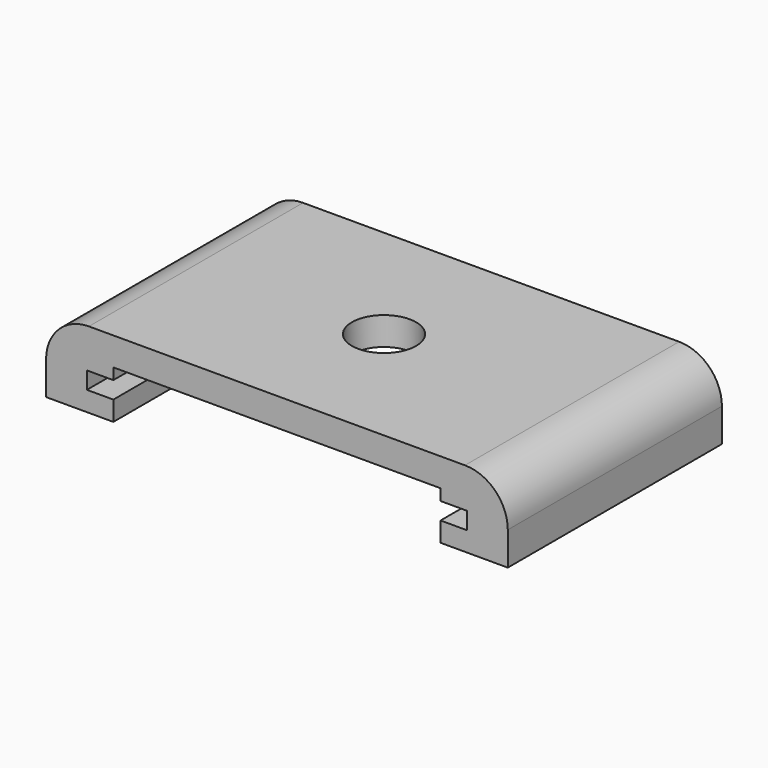
from build123d import *

# Parameters (mm, degrees)
F1_DEPTH = 50
F3_DEPTH = 25
F6_D     = 6


with BuildPart() as f1:
    # F0 (on Front) → F1 (new body)
    with BuildSketch(Plane.XZ):
        with BuildLine():
            Line((-17.75, 14.9), (-17.75, 13.3))
            Line((-17.75, 13.3), (-14.55, 13.3))
            ThreePointArc((-14.55, 13.3), (-13.913604, 13.036396), (-13.65, 12.4))
            Line((-13.65, 12.4), (-13.65, 0.9))
            ThreePointArc((-13.65, 0.9), (-13.386396, 0.263604), (-12.75, 0))
            Line((-12.75, 0), (0, 0))
            Line((0, 0), (12.75, 0))
            ThreePointArc((12.75, 0), (13.386396, 0.263604), (13.65, 0.9))
            Line((13.65, 0.9), (13.65, 12.4))
            ThreePointArc((13.65, 12.4), (13.913604, 13.036396), (14.55, 13.3))
            Line((14.55, 13.3), (17.75, 13.3))
            Line((17.75, 13.3), (17.75, 14.9))
            Line((17.75, 14.9), (13.25, 14.9))
            ThreePointArc((13.25, 14.9), (12.401472, 14.548528), (12.05, 13.7))
            Line((12.05, 13.7), (12.05, 2.5))
            ThreePointArc((12.05, 2.5), (11.786396, 1.863604), (11.15, 1.6))
            Line((11.15, 1.6), (0, 1.6))
            Line((0, 1.6), (-11.15, 1.6))
            ThreePointArc((-11.15, 1.6), (-11.786396, 1.863604), (-12.05, 2.5))
            Line((-12.05, 2.5), (-12.05, 13.7))
            ThreePointArc((-12.05, 13.7), (-12.401472, 14.548528), (-13.25, 14.9))
            Line((-13.25, 14.9), (-17.75, 14.9))
        make_face()
    extrude(amount=F1_DEPTH)


with BuildPart() as f3:
    # F2 (on Front) → F3 (new body)
    with BuildSketch(Plane.XZ):
        with BuildLine():
            Line((-21.562627, 11.464062), (-15.28198, 11.464062))
            Line((-15.28198, 11.464062), (-15.28198, 15.950238))
            Line((-15.28198, 15.950238), (0, 15.950238))
            Line((0, 15.950238), (15.28198, 15.950238))
            Line((15.28198, 15.950238), (15.28198, 11.464062))
            Line((15.28198, 11.464062), (21.562627, 11.464062))
            Line((21.562627, 11.464062), (21.562627, 14.577311))
            ThreePointArc((21.562627, 14.577311), (20.391054, 17.405738), (17.562627, 18.577311))
            Line((17.562627, 18.577311), (0, 18.577311))
            Line((0, 18.577311), (-17.562627, 18.577311))
            ThreePointArc((-17.562627, 18.577311), (-20.391054, 17.405738), (-21.562627, 14.577311))
            Line((-21.562627, 14.577311), (-21.562627, 11.464062))
        make_face()
    extrude(amount=F3_DEPTH)

    # F4: cut F1
    add(f1.part, mode=Mode.SUBTRACT)

    # F6 (through all)
    with Locations(Plane.XY.offset(18.577311)):
        with Locations((0, -12.5)):
            Hole(F6_D / 2)


solid = f3.part
